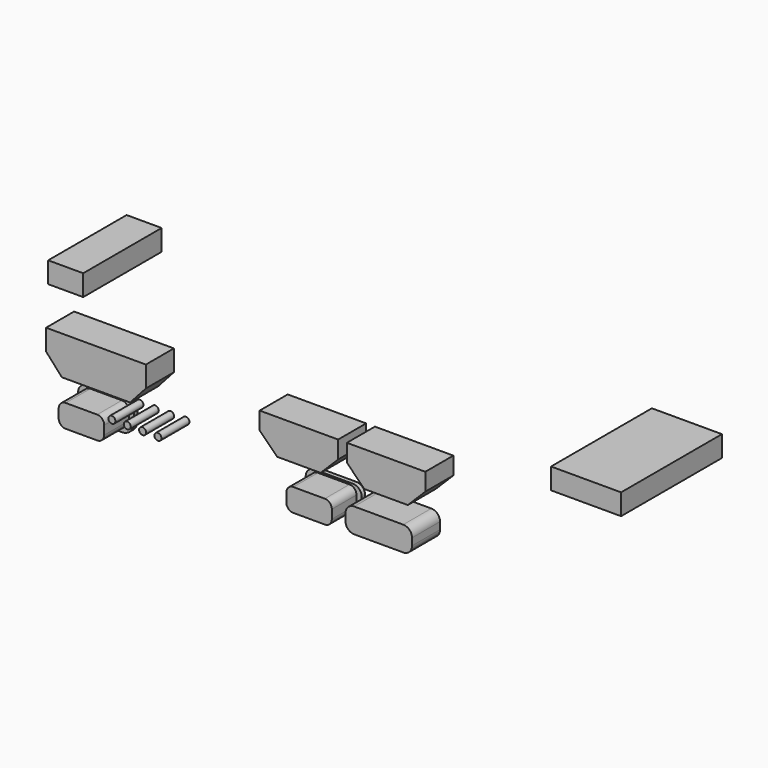
from build123d import *

# Parameters (mm, degrees)
EXTRUDE183_DEPTH = 0.6
EXTRUDE186_DEPTH = 0.6
SKETCH183_R      = 0.5
EXTRUDE181_DEPTH = 5
SKETCH187_W      = 18
SKETCH187_H      = 3
EXTRUDE184_DEPTH = 10
SKETCH184_W      = 14
SKETCH184_H      = 3
EXTRUDE182_DEPTH = 5


with BuildPart() as buttoncuts010:
    # Sketch188 → Extrude183 (new body)
    with BuildSketch(Plane.XZ):
        with BuildLine():
            ThreePointArc((11.8, 16.7), (10.916117, 16.333883), (10.55, 15.45))
            Line((10.55, 14.2), (10.55, 15.45))
            ThreePointArc((10.55, 14.2), (11.062563, 12.962563), (12.3, 12.45))
            Line((16.8, 12.45), (12.3, 12.45))
            ThreePointArc((16.8, 12.45), (18.037437, 12.962563), (18.55, 14.2))
            Line((18.55, 15.45), (18.55, 14.2))
            ThreePointArc((18.55, 15.45), (18.183883, 16.333883), (17.3, 16.7))
            Line((11.8, 16.7), (17.3, 16.7))
        make_face()
    extrude(amount=EXTRUDE183_DEPTH)


with BuildPart() as buttoncuts010_1:
    # Extrude183 placement: moved
    add(buttoncuts010.part.moved(Location((0, 2, 0))))


with BuildPart() as bottombuttoncuts007:
    # Sketch185 → Extrude186 (new body)
    with BuildSketch(Plane.XZ):
        with BuildLine():
            ThreePointArc((11.8, 16.7), (10.916117, 16.333883), (10.55, 15.45))
            Line((10.55, 14.2), (10.55, 15.45))
            ThreePointArc((10.55, 14.2), (11.062563, 12.962563), (12.3, 12.45))
            Line((16.8, 12.45), (12.3, 12.45))
            ThreePointArc((16.8, 12.45), (18.037437, 12.962563), (18.55, 14.2))
            Line((18.55, 15.45), (18.55, 14.2))
            ThreePointArc((18.55, 15.45), (18.183883, 16.333883), (17.3, 16.7))
            Line((11.8, 16.7), (17.3, 16.7))
        make_face()
    extrude(amount=EXTRUDE186_DEPTH)


with BuildPart() as bottombuttoncuts007_1:
    # Extrude186 placement: moved
    add(bottombuttoncuts007.part.moved(Location((32.5, 2, 0))))

    # Fusion190: union buttonCuts010
    add(buttoncuts010_1.part)


with BuildPart() as obj1:
    # Sketch183 → Extrude181 (new body)
    with BuildSketch(Plane.XZ):
        with Locations((18.9, 16.475)):
            Circle(SKETCH183_R)
        with Locations((21.09, 16.475)):
            Circle(SKETCH183_R)
        with Locations((23.28, 16.475)):
            Circle(SKETCH183_R)
        with Locations((25.47, 16.475)):
            Circle(SKETCH183_R)
        Polygon((11.75, 19.5), (21.5, 19.5), (23.75, 22), (23.75, 25), (9.5, 25), (9.5, 22), align=None)
        Polygon((40, 24.5), (40, 22), (42.5, 19.5), (48.7, 19.5), (51.2, 22), (51.2, 24.5), align=None)
        Polygon((52.45, 24.5), (52.45, 22), (54.95, 19.5), (61.15, 19.5), (63.65, 22), (63.65, 24.5), align=None)
        with BuildLine():
            ThreePointArc((12.3, 16.45), (11.592893, 16.157107), (11.3, 15.45))
            Line((11.3, 15.45), (11.3, 14.2))
            ThreePointArc((11.3, 14.2), (11.592893, 13.492893), (12.3, 13.2))
            Line((12.3, 13.2), (16.8, 13.2))
            ThreePointArc((16.8, 13.2), (17.507107, 13.492893), (17.8, 14.2))
            Line((17.8, 15.45), (17.8, 14.2))
            ThreePointArc((17.8, 15.45), (17.507107, 16.157107), (16.8, 16.45))
            Line((12.3, 16.45), (16.8, 16.45))
        make_face()
        with BuildLine():
            Line((44.8, 16.45), (49.3, 16.45))
            ThreePointArc((50.3, 15.45), (50.007107, 16.157107), (49.3, 16.45))
            Line((50.3, 15.45), (50.3, 14.2))
            ThreePointArc((49.3, 13.2), (50.007107, 13.492893), (50.3, 14.2))
            Line((49.3, 13.2), (44.8, 13.2))
            ThreePointArc((43.8, 14.2), (44.092893, 13.492893), (44.8, 13.2))
            Line((43.8, 15.45), (43.8, 14.2))
            ThreePointArc((44.8, 16.45), (44.092893, 16.157107), (43.8, 15.45))
        make_face()
        with BuildLine():
            Line((52.25, 15.58), (52.25, 14.58))
            ThreePointArc((52.25, 14.58), (52.616117, 13.696117), (53.5, 13.33))
            Line((53.5, 13.33), (60.500008, 13.33))
            ThreePointArc((60.500008, 13.33), (61.383886, 13.696119), (61.75, 14.58))
            Line((61.75, 15.58), (61.75, 14.58))
            ThreePointArc((61.75, 15.58), (61.383883, 16.463884), (60.5, 16.83))
            Line((53.5, 16.83), (60.5, 16.83))
            ThreePointArc((53.5, 16.83), (52.616117, 16.463883), (52.25, 15.58))
        make_face()
    extrude(amount=EXTRUDE181_DEPTH)


with BuildPart() as obj1_1:
    # Extrude181 placement: moved
    add(obj1.part.moved(Location((0, 2, 0))))


with BuildPart() as obj2:
    # Sketch187 → Extrude184 (new body)
    with BuildSketch(Plane.YZ):
        with Locations((17, 21.5)):
            Rectangle(SKETCH187_W, SKETCH187_H)
    extrude(amount=EXTRUDE184_DEPTH)


with BuildPart() as obj2_1:
    # Extrude184 placement: moved
    add(obj2.part.moved(Location((72, 1, 0))))


with BuildPart() as bottomcuts005:
    # Sketch184 (on Extrude) → Extrude182 (new body)
    with BuildSketch(Plane(origin=(72, 1, 0), x_dir=(0, 1, 0), z_dir=(1, 0, 0))):
        with Locations((19, 21.4)):
            Rectangle(SKETCH184_W, SKETCH184_H)
    extrude(amount=-EXTRUDE182_DEPTH)


with BuildPart() as bottomcuts005_1:
    # Extrude182 placement: moved
    add(bottomcuts005.part.moved(Location((-70, 0, 0))))

    # Fusion192: union obj2
    add(obj2_1.part)

    # Fusion191: union bottomButtonCuts007, obj1
    add(bottombuttoncuts007_1.part)
    add(obj1_1.part)


solid = bottomcuts005_1.part
